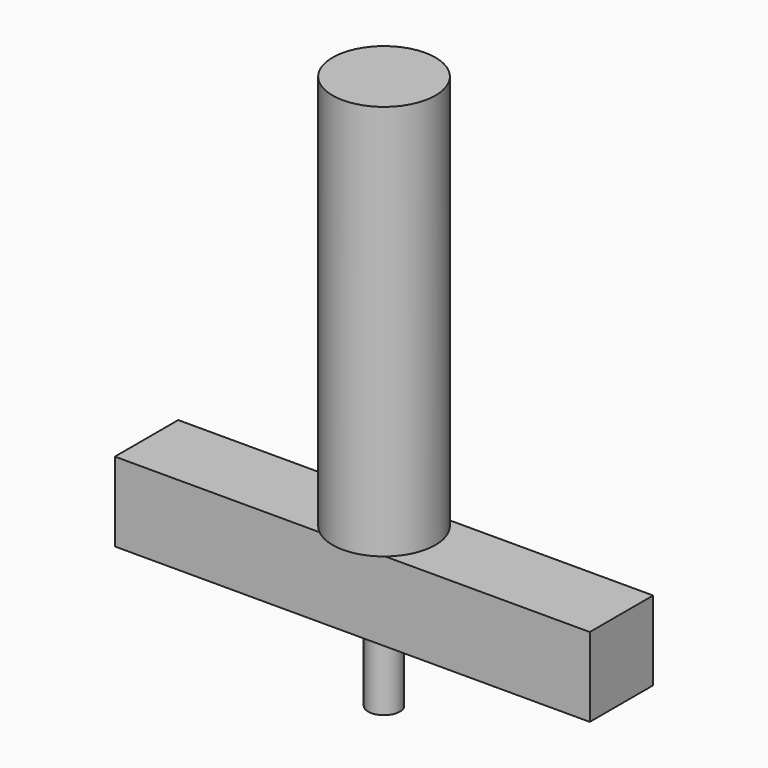
from build123d import *

# Parameters (mm, degrees)
F1_R     = 6.5
F3_W     = 60
F3_H     = 10
F4_DEPTH = 10
F5_R     = 2
F6_DEPTH = 20


with BuildPart() as f2:
    # F2: sweep along a path in F0
    with BuildLine(Plane.XZ) as f2_path:
        Line((0, 50), (0, 0))
    # F1 (on Top) → F2 (sweep)
    with BuildSketch(Plane.XY):
        Circle(F1_R)
    sweep(path=f2_path.line)

    # F3 (on Top) → F4 (join)
    with BuildSketch(Plane.XY):
        Rectangle(F3_W, F3_H)
    extrude(amount=-F4_DEPTH)

    # F5 (on Top) → F6 (join)
    with BuildSketch(Plane.XY):
        Circle(F5_R)
    extrude(amount=-F6_DEPTH)


solid = f2.part
